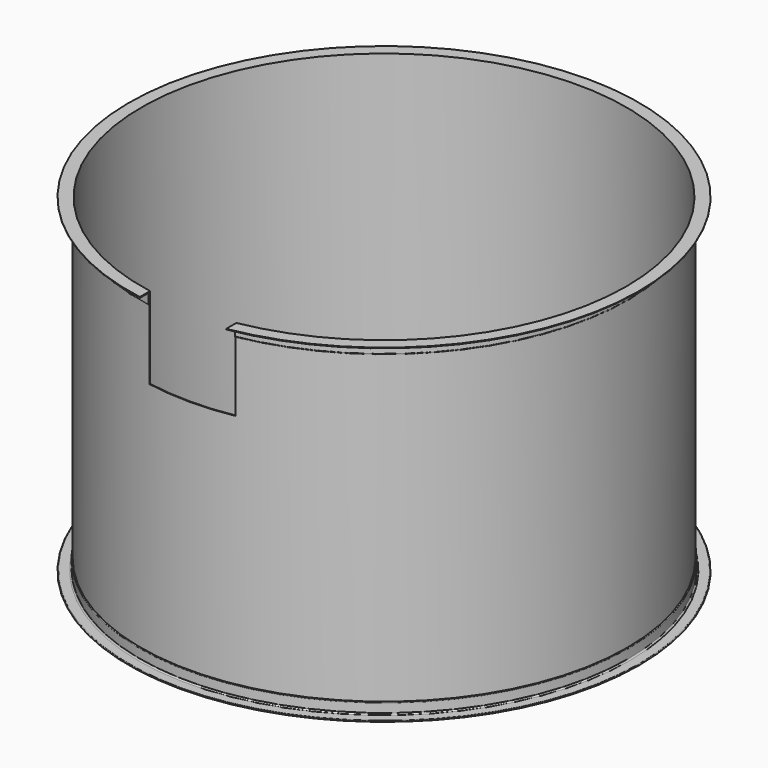
from build123d import *

# Parameters (mm, degrees)
SKETCH011_W      = 550
SKETCH011_H      = 520
EXTRUDE010_DEPTH = 1700
SKETCH010_W      = 5
SKETCH010_H      = 2100


with BuildPart() as extrude010:
    # Sketch011 → Extrude010 (new body)
    with BuildSketch(Plane.XZ):
        with Locations((0, 1840)):
            Rectangle(SKETCH011_W, SKETCH011_H)
    extrude(amount=EXTRUDE010_DEPTH)


with BuildPart() as revolve002:
    # AngleSteel → Revolve002 (revolve)
    with BuildSketch(Plane(origin=(1570.58985, 0, 20.58985), x_dir=(1, 0, 0), z_dir=(0, 1, 0))):
        with BuildLine():
            Line((-20.58985, 20.58985), (-20.58985, -54.41015))
            Line((-20.58985, -54.41015), (-18.58985, -54.41015))
            ThreePointArc((-18.58985, -54.41015), (-15.761423, -53.238577), (-14.58985, -50.41015))
            Line((-14.58985, -50.41015), (-14.58985, 6.08985))
            ThreePointArc((-14.58985, 6.08985), (-12.100258, 12.100258), (-6.08985, 14.58985))
            Line((-6.08985, 14.58985), (50.41015, 14.58985))
            ThreePointArc((50.41015, 14.58985), (53.238577, 15.761423), (54.41015, 18.58985))
            Line((54.41015, 18.58985), (54.41015, 20.58985))
            Line((54.41015, 20.58985), (-20.58985, 20.58985))
        make_face()
    revolve(axis=Axis((0, 0, 0), (0, 0, 1)))


with BuildPart() as revolve003:
    # AngleSteel001 → Revolve003 (revolve)
    with BuildSketch(Plane(origin=(1570.58985, 0, 2079.41015), x_dir=(1, 0, 0), z_dir=(0, 1, 0))):
        with BuildLine():
            Line((-20.58985, -20.58985), (54.41015, -20.58985))
            Line((54.41015, -20.58985), (54.41015, -18.58985))
            ThreePointArc((54.41015, -18.58985), (53.238577, -15.761423), (50.41015, -14.58985))
            Line((50.41015, -14.58985), (-6.08985, -14.58985))
            ThreePointArc((-6.08985, -14.58985), (-12.100258, -12.100258), (-14.58985, -6.08985))
            Line((-14.58985, -6.08985), (-14.58985, 50.41015))
            ThreePointArc((-14.58985, 50.41015), (-15.761423, 53.238577), (-18.58985, 54.41015))
            Line((-18.58985, 54.41015), (-20.58985, 54.41015))
            Line((-20.58985, 54.41015), (-20.58985, -20.58985))
        make_face()
    revolve(axis=Axis((0, 0, 0), (0, 0, 1)))


with BuildPart() as cut005:
    # Sketch010 → Revolve001 (revolve)
    with BuildSketch(Plane.XZ):
        with Locations((1547.5, 1050)):
            Rectangle(SKETCH010_W, SKETCH010_H)
    revolve(axis=Axis((0, 0, 0), (0, 0, 1)))

    # Fusion: union Revolve002, Revolve003
    add(revolve002.part)
    add(revolve003.part)

    # Cut004: cut Extrude010
    add(extrude010.part, mode=Mode.SUBTRACT)


solid = cut005.part
